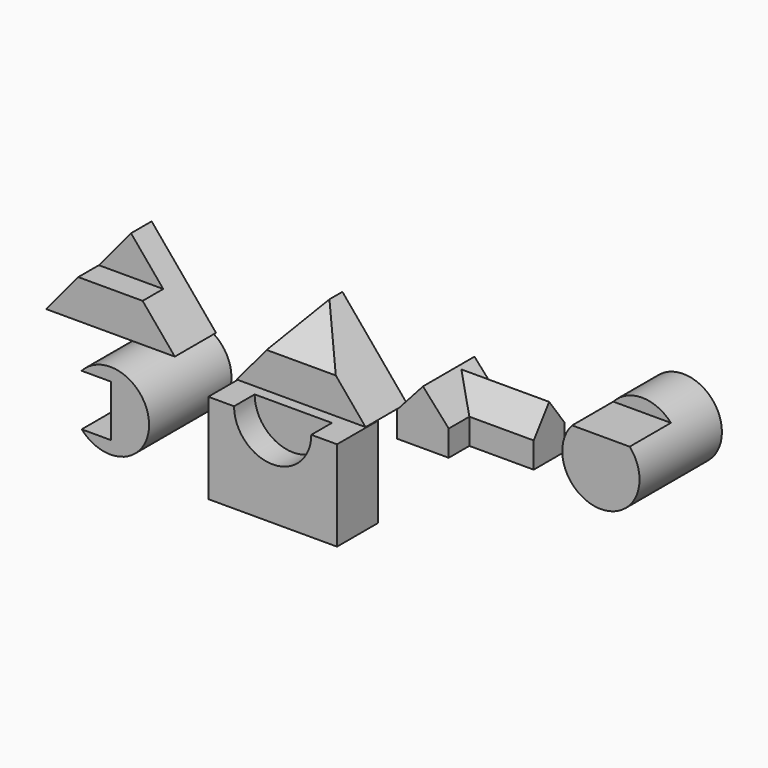
from build123d import *

# Parameters (mm, degrees)
F1_DEPTH      = 101.6
F3_DEPTH      = 50.8
F5_DEPTH      = 101.6
F9_DEPTH      = 139.7
F9_DEPTH_BACK = 181.864
F11_DEPTH     = 127
F14_DEPTH     = 175.26
F15_R         = 76.2
F16_DEPTH     = 203.2
F18_DEPTH     = 101.6
F19_R         = 76.2
F20_DEPTH     = 203.2
F22_DEPTH     = 101.6
F24_DEPTH     = 101.6
F26_DEPTH     = 50.8


with BuildPart() as f1:
    # F0 (on Front) → F1 (new body)
    with BuildSketch(Plane.XZ):
        Polygon((192.4050192833, 152.4), (65.4050192833, 0), (319.4050192833, 0), align=None)
    extrude(amount=-F1_DEPTH)

    # F2 (on face) → F3 (cut)
    with BuildSketch(Plane.XZ):
        Polygon((192.4050192833, 152.4), (128.9050192833, 76.2), (255.9050192833, 76.2), align=None)
    extrude(amount=-F3_DEPTH, mode=Mode.SUBTRACT)


with BuildPart() as f5:
    # F4 (on face) → F5 (new body)
    with BuildSketch(Plane.XZ):
        Polygon((568.7983591557, 152.4), (441.7983591557, 0), (695.7983591557, 0), align=None)
    extrude(amount=-F5_DEPTH)

    # F8 (on 3pt) → F9 (cut, two sides)
    with BuildSketch(Plane.YZ.offset(568.7983591557)) as f9_sk:
        Polygon((0, 152.4), (0, 70.5539137125), (69.5669651031, 152.4), align=None)
    extrude(amount=-F9_DEPTH, mode=Mode.SUBTRACT)
    extrude(f9_sk.sketch, amount=F9_DEPTH_BACK, mode=Mode.SUBTRACT)


with BuildPart() as f11:
    # F10 (on face) → F11 (new body)
    with BuildSketch(Plane.XZ):
        Polygon((758.2182611698, 50.8), (758.2182611698, 0), (859.8182611698, 0), (859.8182611698, 50.8), (814.381359867, 101.6), (809.0182611698, 107.5961266285), align=None)
    extrude(amount=-F11_DEPTH)

    # F13 (on offset) → F14 (join)
    with BuildSketch(Plane.YZ.offset(986.8182611698)):
        Polygon((50.8, 50.8), (50.8, 0), (127, 0), (127, 50.8), (88.9, 102.3936793208), align=None)
    extrude(amount=-F14_DEPTH)


with BuildPart() as f16:
    # F15 (on face) → F16 (new body)
    with BuildSketch(Plane.XZ.offset(-50.8)):
        with Locations((1119.3940639496, 50.8)):
            Circle(F15_R)
    extrude(amount=-F16_DEPTH)

    # F17 (on face) → F18 (cut)
    with BuildSketch(Plane.XZ.offset(-50.8)):
        with BuildLine():
            ThreePointArc((1176.1901905781, 101.6), (1119.3940639496, 127), (1062.5979373211, 101.6))
            Line((1062.5979373211, 101.6), (1176.1901905781, 101.6))
        make_face()
    extrude(amount=-F18_DEPTH, mode=Mode.SUBTRACT)


with BuildPart() as f20:
    # F19 (on face) → F20 (new body)
    with BuildSketch(Plane.XZ):
        with Locations((192.4050192833, -135.2055221796)):
            Circle(F19_R)
    extrude(amount=-F20_DEPTH)

    # F21 (on face) → F22 (cut)
    with BuildSketch(Plane.XZ):
        with BuildLine():
            Line((193.4100860932, -84.4055221796), (135.6088926548, -84.4055221796))
            ThreePointArc((135.6088926548, -84.4055221796), (116.2050192833, -135.2055221796), (135.6088926548, -186.0055221796))
            Line((135.6088926548, -186.0055221796), (193.4100860932, -186.0055221796))
            Line((193.4100860932, -186.0055221796), (193.4100860932, -84.4055221796))
        make_face()
    extrude(amount=-F22_DEPTH, mode=Mode.SUBTRACT)


with BuildPart() as f24:
    # F23 (on face) → F24 (new body)
    with BuildSketch(Plane.XZ):
        Polygon((385.4520320892, -48.2135859251), (385.4520320892, -226.0135859251), (639.4520320892, -226.0135859251), (639.4520320892, -48.2135859251), (588.6520320892, -48.2135859251), (436.2520320892, -48.2135859251), align=None)
    extrude(amount=-F24_DEPTH)

    # F25 (on face) → F26 (cut)
    with BuildSketch(Plane.XZ):
        with BuildLine():
            Line((588.6520320892, -48.2135859251), (436.2520320892, -48.2135859251))
            ThreePointArc((436.2520320892, -48.2135859251), (512.4520320892, -124.4135859251), (588.6520320892, -48.2135859251))
        make_face()
    extrude(amount=-F26_DEPTH, mode=Mode.SUBTRACT)


solid = Compound([f1.part, f5.part, f11.part, f16.part, f20.part, f24.part])
